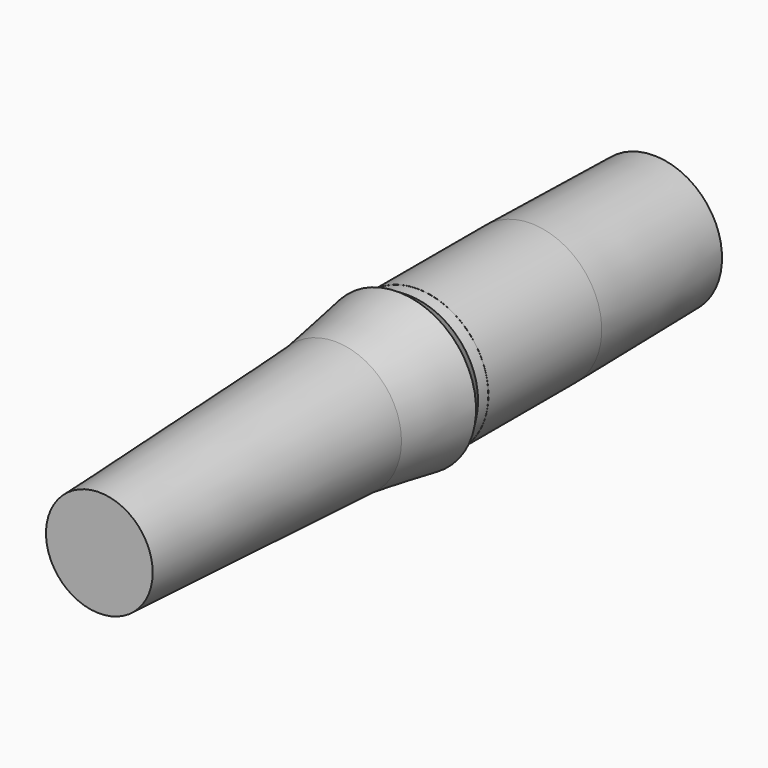
from build123d import *

# Parameters (mm, degrees)
F0_R     = 9.385
F1_DEPTH = 52.8
F1_TAPER = 2.5
F2_R     = 9.4
F3_DEPTH = 18.8
F4_R     = 9.4
F5_DEPTH = 20.4
F5_TAPER = 1


with BuildPart() as f1:
    # F0 (on Front) → F1 (new body)
    with BuildSketch(Plane.XZ):
        Circle(F0_R)
    extrude(amount=F1_DEPTH, taper=F1_TAPER)

    # F2 (on face) → F3 (join)
    with BuildSketch(Plane(origin=(0, 0, 0), x_dir=(-1, 0, 0), z_dir=(0, 1, 0))):
        Circle(F2_R)
    extrude(amount=F3_DEPTH)

    # F4 (on face) → F5 (join)
    with BuildSketch(Plane(origin=(0, 18.8, 0), x_dir=(-1, 0, 0), z_dir=(0, 1, 0))):
        Circle(F4_R)
    extrude(amount=F5_DEPTH, taper=F5_TAPER)

    # F6 (on Top) → F7 (revolve)
    with BuildSketch(Plane.XY):
        Polygon((-8.708294537, -14.1886593821), (-9.2448791865, -1.5), (-10.3712912667, -3.2655011038), align=None)
    revolve(axis=Axis((0, -52.8, 0), (0, 1, 0)))


solid = f1.part
